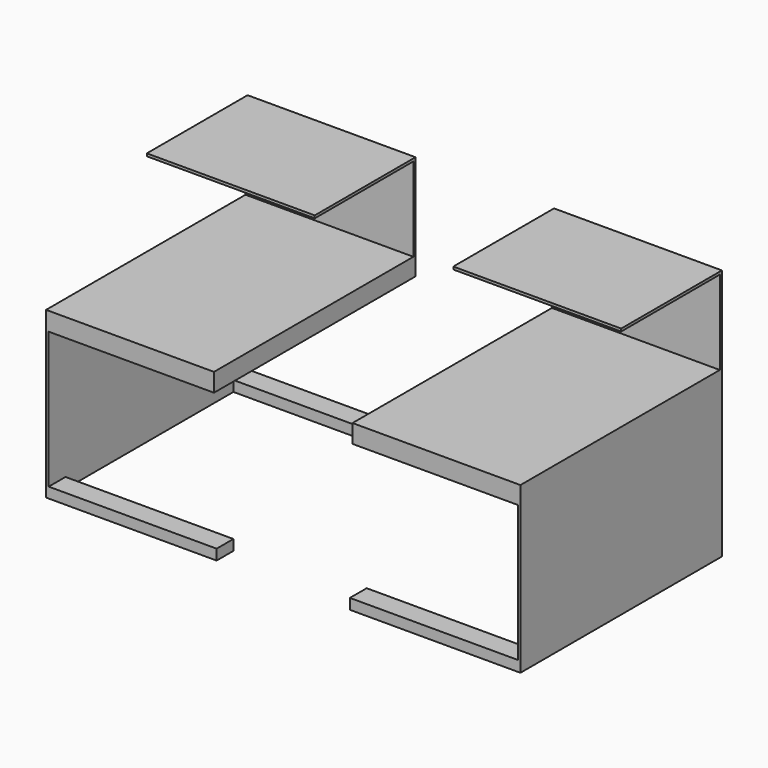
from build123d import *

# Parameters (mm, degrees)
F0_W      = 406.4
F0_H      = 609.6
F1_DEPTH  = 6.35
F2_W      = 406.4
F2_H      = 609.6
F2_W_2    = 393.7
F2_H_2    = 596.9
F3_DEPTH  = 38.1
F4_W      = 6.35
F4_H      = 609.6
F5_DEPTH  = 355.6
F6_W      = 406.4
F6_H      = 6.35
F7_DEPTH  = 203.2
F8_W      = 406.4
F8_H      = 6.35
F9_DEPTH  = 304.8
F10_W     = 50.8
F10_H     = 25.4
F11_DEPTH = 406.4


with BuildPart() as f1:
    # F0 (on Top) → F1 (new body)
    with BuildSketch(Plane.XY):
        Rectangle(F0_W, F0_H)
    extrude(amount=F1_DEPTH)

    # F2 (on face) → F3 (join)
    with BuildSketch(Plane(origin=(0, 0, 0), x_dir=(1, 0, 0), z_dir=(0, 0, -1))):
        Rectangle(F2_W, F2_H)
        Rectangle(F2_W_2, F2_H_2, mode=Mode.SUBTRACT)
    extrude(amount=F3_DEPTH)

    # F4 (on face) → F5 (join)
    with BuildSketch(Plane(origin=(0, 0, -38.1), x_dir=(1, 0, 0), z_dir=(0, 0, -1))):
        with Locations((-200.025, 0)):
            Rectangle(F4_W, F4_H)
    extrude(amount=F5_DEPTH)

    # F6 (on face) → F7 (join)
    with BuildSketch(Plane.XY.offset(6.35)):
        with Locations((0, 301.625)):
            Rectangle(F6_W, F6_H)
    extrude(amount=F7_DEPTH)

    # F8 (on face) → F9 (join)
    with BuildSketch(Plane(origin=(0, 304.8, 0), x_dir=(-1, 0, 0), z_dir=(0, 1, 0))):
        with Locations((0, 212.725)):
            Rectangle(F8_W, F8_H)
    extrude(amount=-F9_DEPTH)

    # F10 (on face) → F11 (join)
    with BuildSketch(Plane.YZ.offset(-196.85)):
        with Locations((-279.4, -381)):
            Rectangle(F10_W, F10_H)
        with Locations((279.4, -381)):
            Rectangle(F10_W, F10_H)
    extrude(amount=F11_DEPTH)


with BuildPart() as f13_1:
    # F13: instance of F1
    add(f1.part.mirror(Plane(origin=(370.84, 22.562766, 3.985638), x_dir=(0, 1, 0), z_dir=(1, 0, 0))))


solid = Compound([f1.part, f13_1.part])
